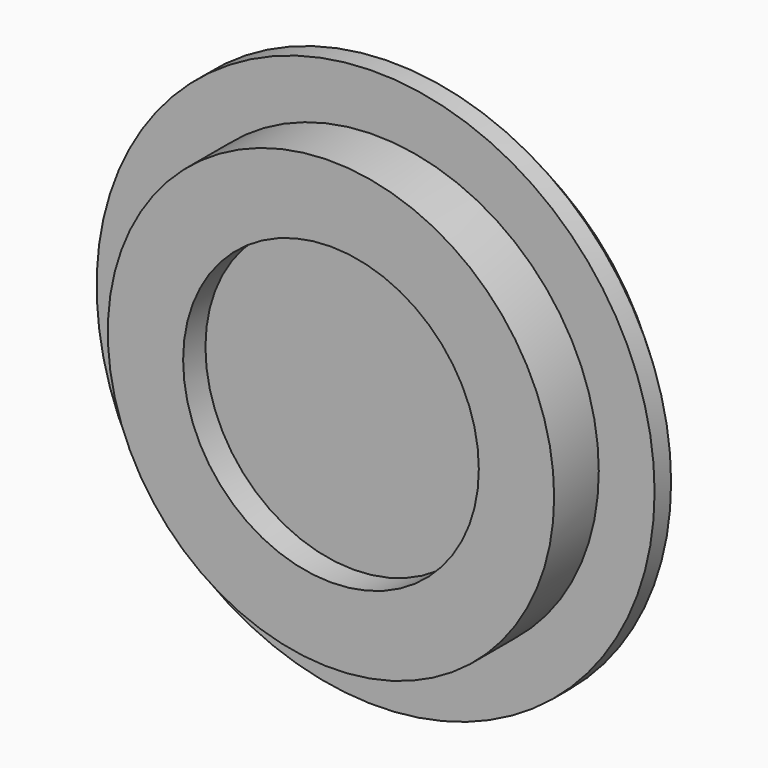
from build123d import *

# Parameters (mm, degrees)
F0_R     = 10.16
F0_R_2   = 6.731
F1_DEPTH = 2.54
F2_DEPTH = 1.27
F0_R_3   = 12.7
F3_DEPTH = 2.54
F4_DEPTH = 2.54
F5_DEPTH = 2.54
F6_SIZE  = 1.6002


with BuildPart() as f1:
    # F0 (on Front) → F1 (new body)
    with BuildSketch(Plane.XZ):
        Circle(F0_R)
        Circle(F0_R_2, mode=Mode.SUBTRACT)
    extrude(amount=F1_DEPTH)


with BuildPart() as f2:
    # F0 (on Front) → F2 (new body)
    with BuildSketch(Plane.XZ):
        Circle(F0_R_2)
    extrude(amount=F2_DEPTH)


with BuildPart() as f3:
    # F0 (on Front) → F3 (new body)
    with BuildSketch(Plane.XZ):
        Circle(F0_R_3)
        Circle(F0_R, mode=Mode.SUBTRACT)
    extrude(amount=-F3_DEPTH)

    # F6
    f6_edges = [f3.edges().sort_by_distance(p)[0] for p in [
        (-12.7, 2.54, 0),
    ]]
    chamfer(f6_edges, length=F6_SIZE)


with BuildPart() as f4:
    # F0 (on Front) → F4 (new body)
    with BuildSketch(Plane.XZ):
        Circle(F0_R)
        Circle(F0_R_2, mode=Mode.SUBTRACT)
    extrude(amount=-F4_DEPTH)


with BuildPart() as f5:
    # F0 (on Front) → F5 (new body)
    with BuildSketch(Plane.XZ):
        Circle(F0_R_2)
    extrude(amount=-F5_DEPTH)


solid = Compound([f1.part, f2.part, f3.part, f4.part, f5.part])
